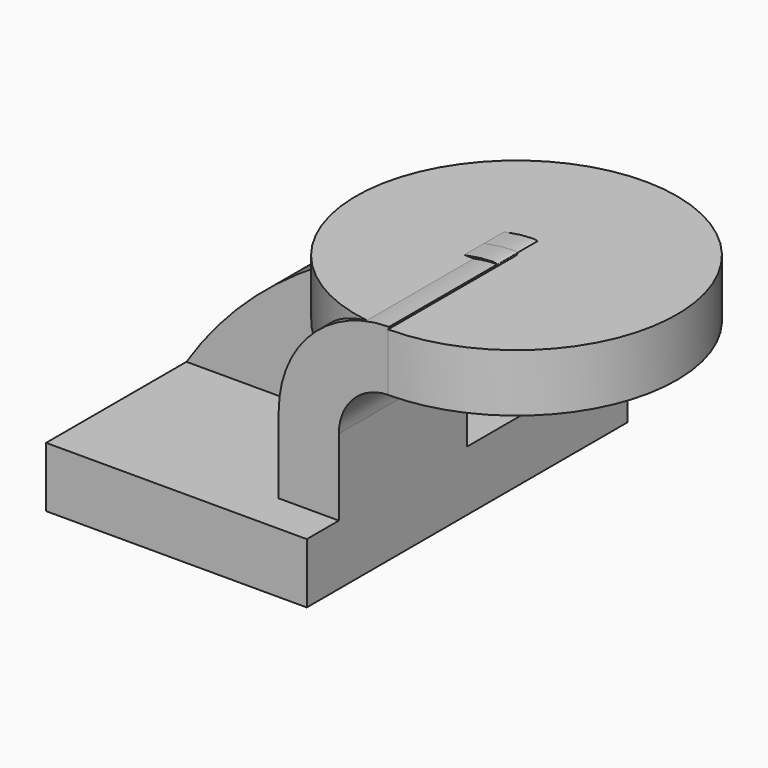
from build123d import *

# Parameters (mm, degrees)
F1_DEPTH  = 63.5
F2_DEPTH  = 50.8
F3_DEPTH  = 7.9375
F2_FACE_W = 50.8
F2_FACE_H = 18.2610141082


with BuildPart() as f1:
    # F0 (on Front) → F1 (new body, symmetric)
    with BuildSketch(Plane.XZ):
        Polygon((22.225, 9.525), (-41.275, 9.525), (-41.275, -9.525), (41.275, -9.525), (41.275, 9.525), align=None)
    extrude(amount=F1_DEPTH, both=True)

    # F0 (on Front) → F2 (join)
    with BuildSketch(Plane.XZ):
        with BuildLine():
            Line((22.225, 33.7634080377), (22.225, 9.525))
            Line((22.225, 9.525), (41.275, 9.525))
            Line((41.275, 9.525), (41.275, 33.7634080377))
            ThreePointArc((41.275, 33.7634080377), (45.8279770824, 44.8911850867), (56.8753051405, 49.636031253))
            Line((56.8753051405, 49.636031253), (56.8753051405, 67.8970453611))
            add(Edge.make_bspline(
                [(57.15, 68.6884080377), (57.335632748, 68.5042193152), (57.0807165436, 68.2374790668), (56.8753051405, 67.8970453611)],
                knots=[0.9213128399, 0.9213128399, 0.9213128399, 0.9213128399, 1, 1, 1, 1], degree=3))
            ThreePointArc((57.15, 68.6884080377), (32.4542956671, 58.4591123706), (22.225, 33.7634080377))
        make_face()
    extrude(amount=F2_DEPTH)

    # F0 (on Front) → F3 (join, symmetric)
    with BuildSketch(Plane.XZ):
        with BuildLine():
            add(Edge.make_bspline(
                [(-41.275, 9.525), (-7.5919390656, 61.6845674813), (54.9765090021, 70.8449915853), (57.15, 68.6884080377)],
                knots=[0, 0, 0, 0, 0.9213128399, 0.9213128399, 0.9213128399, 0.9213128399], degree=3))
            Line((-41.275, 9.525), (22.225, 9.525))
            Line((22.225, 9.525), (22.225, 33.7634080377))
            ThreePointArc((22.225, 33.7634080377), (32.4542956671, 58.4591123706), (57.15, 68.6884080377))
        make_face()
    extrude(amount=F3_DEPTH, both=True)

    # F2_face (on face) → F4 (revolve)
    with BuildSketch(Plane(origin=(56.8753051405, -25.4, 58.7665383071), x_dir=(0, 1, 0), z_dir=(1, 0, 0))):
        Rectangle(F2_FACE_W, F2_FACE_H)
    revolve(axis=Axis((56.8753051405, 0, 58.7665383071), (0, 0, -1)))


solid = f1.part
